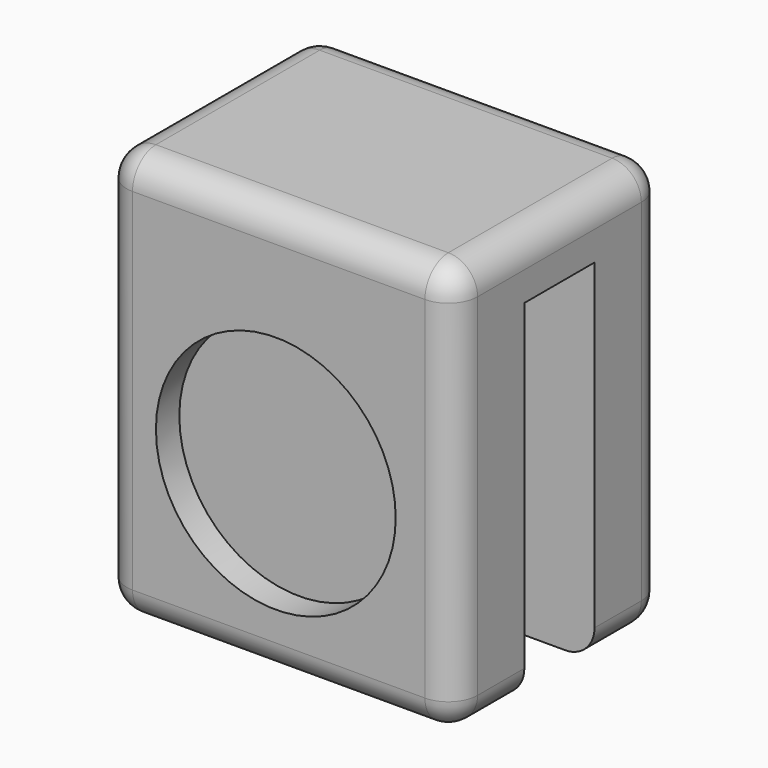
from build123d import *

# Parameters (mm, degrees)
F0_W     = 12
F0_H     = 14
F1_DEPTH = 3
F2_R     = 4.1
F3_DEPTH = 1
F4_W     = 12
F4_H     = 2
F5_DEPTH = 3
F6_W     = 12
F6_H     = 2
F6_H_2   = 12
F7_DEPTH = 3
F8_R     = 1


with BuildPart() as f1:
    # F0 (on Front) → F1 (new body)
    with BuildSketch(Plane.XZ):
        with Locations((6, 7)):
            Rectangle(F0_W, F0_H)
    extrude(amount=F1_DEPTH)

    # F2 (on face) → F3 (cut)
    with BuildSketch(Plane.XZ.offset(3)):
        with Locations((5.9, 6.09918)):
            Circle(F2_R)
    extrude(amount=-F3_DEPTH, mode=Mode.SUBTRACT)

    # F4 (on face) → F5 (join)
    with BuildSketch(Plane(origin=(0, 0, 0), x_dir=(-1, 0, 0), z_dir=(0, 1, 0))):
        with Locations((-6, 13)):
            Rectangle(F4_W, F4_H)
    extrude(amount=F5_DEPTH)

    # F6 (on face) → F7 (join)
    with BuildSketch(Plane(origin=(0, 3, 0), x_dir=(-1, 0, 0), z_dir=(0, 1, 0))):
        with Locations((-6, 13)):
            Rectangle(F6_W, F6_H)
        with Locations((-6, 6)):
            Rectangle(F6_W, F6_H_2)
    extrude(amount=F7_DEPTH)

    # F8
    f8_edges = [f1.edges().sort_by_distance(p)[0] for p in [
        (12, -3, 7),
        (0, -3, 7),
        (6, -3, 14),
        (6, -3, 0),
        (6, 6, 14),
        (0, 6, 7),
        (12, 6, 7),
        (6, 6, 0),
        (0, 1.5, 14),
        (12, 1.5, 14),
        (12, -1.5, 0),
        (12, 4.5, 0),
        (0, 4.5, 0),
        (0, -1.5, 0),
    ]]
    fillet(f8_edges, radius=F8_R)


solid = f1.part
